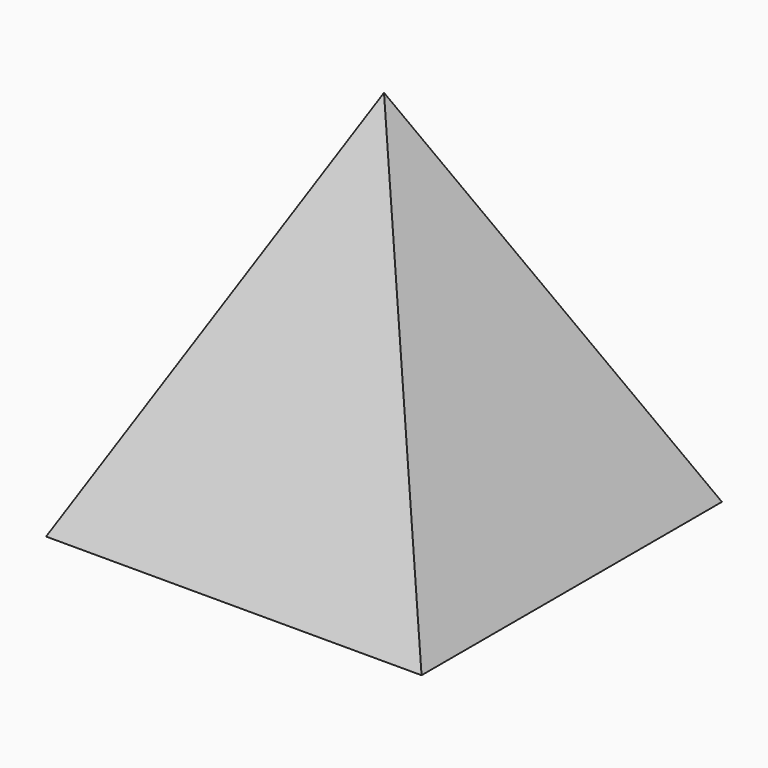
from build123d import *

# Parameters (mm, degrees)
F0_W      = 10
F0_H      = 10
F7_DEPTH  = 10
F8_DEPTH  = 4.473135955
F9_DEPTH  = 4.473135955
F12_W     = 19.2976649851
F12_H     = 18.8721097074
F13_DEPTH = 4.473135955
F14_W     = 48.2514444739
F14_H     = 43.6994209886
F15_DEPTH = 4.473135955


with BuildPart() as f7:
    # F0 (on Top) → F7 (new body)
    with BuildSketch(Plane.XY):
        Rectangle(F0_W, F0_H)
    extrude(amount=F7_DEPTH)

    # F4 (on 3pt) → F8 (cut, through all)
    with BuildSketch(Plane(origin=(4, 0, 2), x_dir=(0, 1, 0), z_dir=(0.894427191, 0, 0.4472135955))):
        Polygon((0, 8.94427191), (-5, -2.2360679775), (5, -2.2360679775), align=None)
    extrude(amount=F8_DEPTH, mode=Mode.SUBTRACT)

    # F6 (on 3pt) → F9 (cut, through all)
    with BuildSketch(Plane(origin=(-4, 0, 2), x_dir=(0, 1, 0), z_dir=(0.894427191, 0, -0.4472135955))):
        Polygon((-5, -2.2360679775), (5, -2.2360679775), (0, 8.94427191), align=None)
    extrude(amount=-F9_DEPTH, mode=Mode.SUBTRACT)

    # F12 (on 3pt) → F13 (cut, through all)
    with BuildSketch(Plane(origin=(0, -4, 2), x_dir=(-1, 0, 0), z_dir=(0, 0.894427191, -0.4472135955))):
        with Locations((0.6115389988, 1.8165449146)):
            Rectangle(F12_W, F12_H)
    extrude(amount=-F13_DEPTH, mode=Mode.SUBTRACT)

    # F14 (on 3pt) → F15 (cut, through all)
    with BuildSketch(Plane(origin=(0, 4, 2), x_dir=(-1, 0, 0), z_dir=(0, 0.894427191, 0.4472135955))):
        with Locations((-1.8208147958, 2.8563160449)):
            Rectangle(F14_W, F14_H)
    extrude(amount=F15_DEPTH, mode=Mode.SUBTRACT)


solid = f7.part
